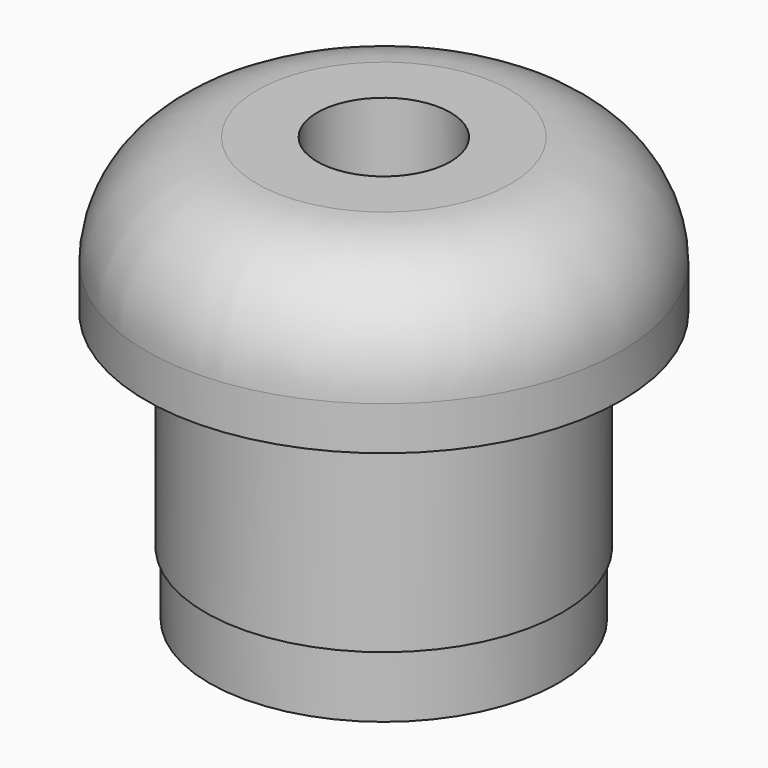
from build123d import *

# Parameters (mm, degrees)
F0_R     = 11
F0_R_2   = 10
F1_DEPTH = 17
F2_R     = 15
F3_DEPTH = 9.75
F4_R     = 7
F6_R     = 11.25
F6_R_2   = 11
F7_DEPTH = 13
F8_R     = 4.2
F9_DEPTH = 25.4


with BuildPart() as f1:
    # F0 (on Top) → F1 (new body)
    with BuildSketch(Plane.XY):
        Circle(F0_R)
        Circle(F0_R_2, mode=Mode.SUBTRACT)
    extrude(amount=F1_DEPTH)

    # F2 (on face) → F3 (join)
    with BuildSketch(Plane.XY.offset(17)):
        Circle(F2_R)
    extrude(amount=F3_DEPTH)

    # F4
    f4_edges = [f1.edges().sort_by_distance(p)[0] for p in [
        (-15, 0, 26.75),
    ]]
    fillet(f4_edges, radius=F4_R)

    # F6 (on offset) → F7 (join, through all)
    with BuildSketch(Plane(origin=(0, 0, 4), x_dir=(1, 0, 0), z_dir=(0, 0, -1))):
        Circle(F6_R)
        Circle(F6_R_2, mode=Mode.SUBTRACT)
    extrude(amount=-F7_DEPTH)

    # F8 (on face) → F9 (cut)
    with BuildSketch(Plane.XY.offset(26.75)):
        Circle(F8_R)
    extrude(amount=-F9_DEPTH, mode=Mode.SUBTRACT)


solid = f1.part
